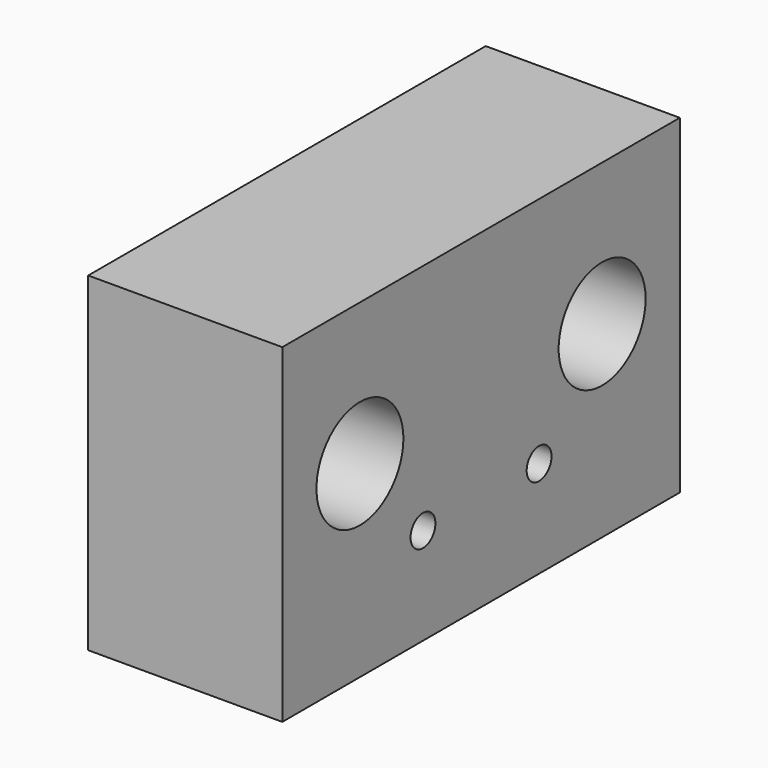
from build123d import *

# Parameters (mm, degrees)
F0_W     = 32.512
F0_H     = 21.59
F1_DEPTH = 12.7
F2_R     = 1.016
F2_R_2   = 1.905
F3_DEPTH = 12.701
F5_DEPTH = 1.651
F6_R     = 3.556
F7_DEPTH = 9.525


with BuildPart() as f1:
    # F0 (on Right) → F1 (new body)
    with BuildSketch(Plane.YZ):
        with Locations((0, 7.62)):
            Rectangle(F0_W, F0_H)
    extrude(amount=F1_DEPTH)

    # F2 (on face) → F3 (cut, through all)
    with BuildSketch(Plane(origin=(0, 0, 0), x_dir=(0, -1, 0), z_dir=(-1, 0, 0))):
        with Locations((4.7498, 3.175)):
            Circle(F2_R)
        with Locations((-4.7498, 3.175)):
            Circle(F2_R)
        with Locations((-9.906, 9.124435)):
            Circle(F2_R_2)
        with Locations((9.906, 9.124435)):
            Circle(F2_R_2)
    extrude(amount=-F3_DEPTH, mode=Mode.SUBTRACT)

    # F4 (on face) → F5 (cut)
    with BuildSketch(Plane(origin=(0, 0, 0), x_dir=(0, -1, 0), z_dir=(-1, 0, 0))):
        Polygon((-1.96794, 3.332093), (-3.494916, 5.662708), (-6.276777, 5.505615), (-7.53166, 3.017907), (-6.004684, 0.687292), (-3.222823, 0.844385), align=None)
        Polygon((6.142946, 5.588), (3.356654, 5.588), (1.963508, 3.175), (3.356654, 0.762), (6.142946, 0.762), (7.536092, 3.175), align=None)
    extrude(amount=-F5_DEPTH, mode=Mode.SUBTRACT)

    # F6 (on face) → F7 (cut)
    with BuildSketch(Plane.YZ.offset(12.7)):
        with Locations((9.906, 9.124435)):
            Circle(F6_R)
        with Locations((-9.906, 9.124435)):
            Circle(F6_R)
    extrude(amount=-F7_DEPTH, mode=Mode.SUBTRACT)


solid = f1.part
